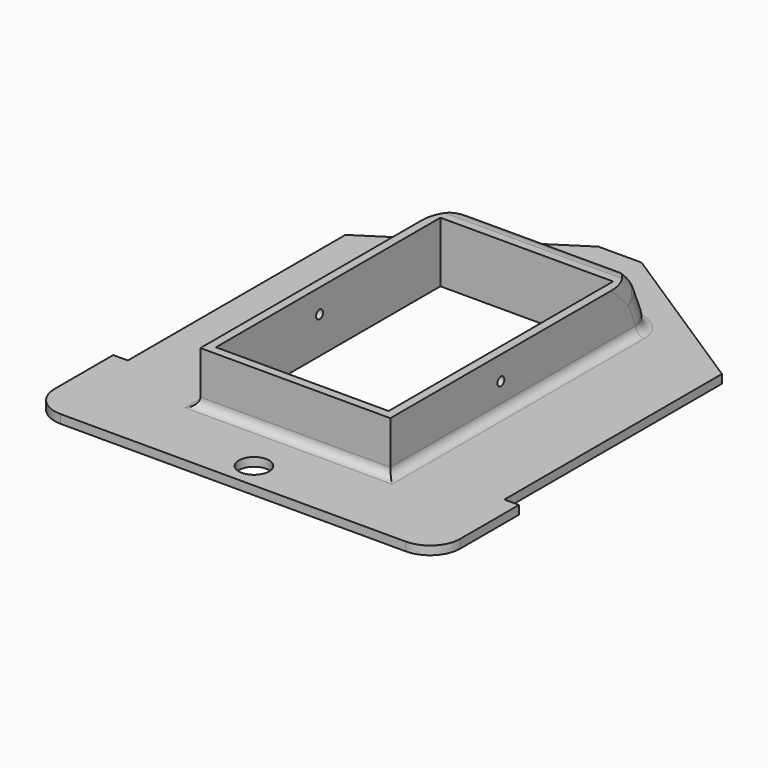
from build123d import *

# Parameters (mm, degrees)
SKETCH007_R             = 3.5
SKETCH007_W             = 40
SKETCH007_H             = 65
PAD003_DEPTH            = 2
SKETCH017_W             = 44
SKETCH017_H             = 76
SKETCH017_W_2           = 40
SKETCH017_H_2           = 65
PAD009_DEPTH            = 12
SKETCH018_R             = 1
POCKET003_DEPTH         = 44
CHAMFER003_SIZE         = 5
CHAMFER004_SIZE         = 4
FILLET012_R             = 5
FILLET013_R             = 7
FILLET014_R             = 2
BODY001_ROLL_ANGLE      = 90
BODY001_PLACEMENT_ANGLE = 180


with BuildPart() as part:
    # Sketch007 → Pad003 (new body)
    with BuildSketch(Plane.XZ):
        Polygon((-5, 30), (5, 30), (43.613469, 5), (43.613469, -58), (47, -58), (47, -82), (-47, -82), (-47, -58), (-43.613469, -58), (-43.613469, 5), align=None)
        with Locations((0, -76)):
            Circle(SKETCH007_R, mode=Mode.SUBTRACT)
        with Locations((0, -29.5)):
            Rectangle(SKETCH007_W, SKETCH007_H, mode=Mode.SUBTRACT)
    extrude(amount=PAD003_DEPTH)

    # Sketch017 (on Face16 of Pad003) → Pad009 (join)
    with BuildSketch(Plane(origin=(0, 0, 0), x_dir=(1, 0, 0), z_dir=(0, 1, 0))):
        with Locations((0, 26)):
            Rectangle(SKETCH017_W, SKETCH017_H)
        with Locations((0, 29.5)):
            Rectangle(SKETCH017_W_2, SKETCH017_H_2, mode=Mode.SUBTRACT)
    extrude(amount=PAD009_DEPTH)

    # Sketch018 (on Face13 of Pad009) → Pocket003 (cut)
    with BuildSketch(Plane(origin=(-22, 0, 0), x_dir=(0, 0, -1), z_dir=(-1, 0, 0))):
        with Locations((32, -6.5)):
            Circle(SKETCH018_R)
    extrude(amount=-POCKET003_DEPTH, mode=Mode.SUBTRACT)

    # Chamfer003
    chamfer003_edges = [part.edges().sort_by_distance(p)[0] for p in [
        (0, 12, 12),
    ]]
    chamfer(chamfer003_edges, length=CHAMFER003_SIZE)

    # Chamfer004
    chamfer004_edges = [part.edges().sort_by_distance(p)[0] for p in [
        (0, 7, 12),
    ]]
    chamfer(chamfer004_edges, length=CHAMFER004_SIZE)

    # Fillet012
    fillet012_edges = [part.edges().sort_by_distance(p)[0] for p in [
        (0, 3, 12),
        (0, 9.828427, 9.171573),
        (0, 12, 7),
        (-22, 10.914214, 8.085786),
        (-22, 6.414214, 10.585786),
        (-22, 1.5, 12),
        (22, 10.914214, 8.085786),
        (22, 6.414214, 10.585786),
        (22, 1.5, 12),
    ]]
    fillet(fillet012_edges, radius=FILLET012_R)

    # Fillet013
    fillet013_edges = [part.edges().sort_by_distance(p)[0] for p in [
        (47, -1, -82),
        (-47, -1, -82),
    ]]
    fillet(fillet013_edges, radius=FILLET013_R)

    # Fillet014
    fillet014_edges = [part.edges().sort_by_distance(p)[0] for p in [
        (0, 0, -64),
        (0, 0, 12),
    ]]
    fillet(fillet014_edges, radius=FILLET014_R)


with BuildPart() as part_1:
    # Body001 roll: moved
    add(part.part.rotate(Axis((0, 0, 0), (1, 0, 0)), BODY001_ROLL_ANGLE))


with BuildPart() as part_2:
    # Body001 placement: moved
    add(part_1.part.moved(Location((0, 0, 31))).rotate(Axis((0, 0, 31), (0, 0, 1)), BODY001_PLACEMENT_ANGLE))


solid = part_2.part
